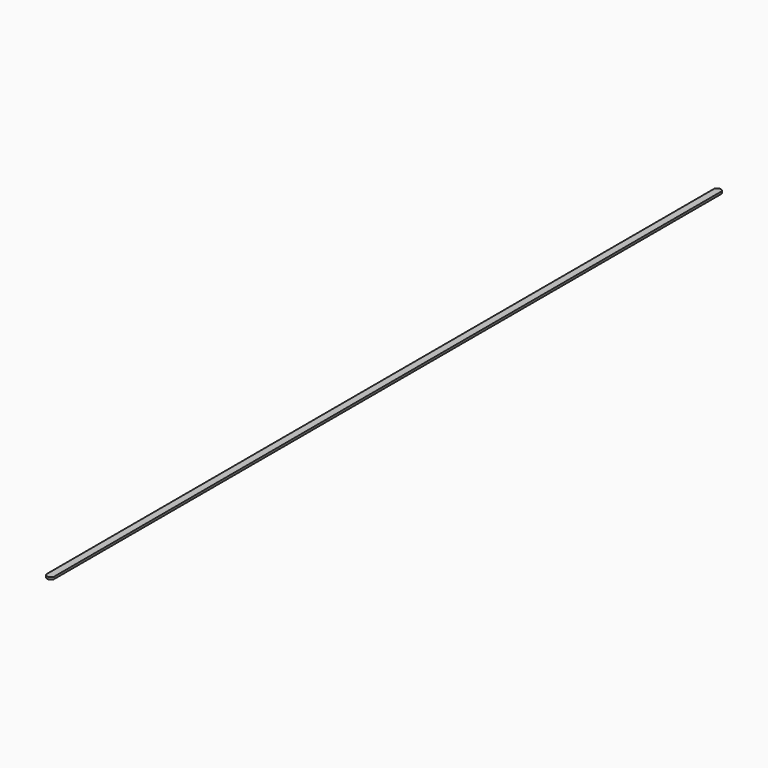
from build123d import *

# Parameters (mm, degrees)
BOX004_W     = 1
BOX004_H     = 115
BOX004_DEPTH = 0.3
FILLET005_R  = 0.45
FILLET006_R  = 0.45
FILLET009_R  = 0.45
FILLET010_R  = 0.45


with BuildPart() as part:
    # Box004 → Box004 (new body)
    with BuildSketch(Plane(origin=(-20, -118, 9.9), x_dir=(1, 0, 0), z_dir=(0, 0, 1))):
        with Locations((0.5, 57.5)):
            Rectangle(BOX004_W, BOX004_H)
    extrude(amount=BOX004_DEPTH)

    # Fillet005
    fillet005_edges = [part.edges().sort_by_distance(p)[0] for p in [
        (-20, -3, 10.05),
    ]]
    fillet(fillet005_edges, radius=FILLET005_R)

    # Fillet006
    fillet006_edges = [part.edges().sort_by_distance(p)[0] for p in [
        (-19, -3, 10.05),
    ]]
    fillet(fillet006_edges, radius=FILLET006_R)

    # Fillet009
    fillet009_edges = [part.edges().sort_by_distance(p)[0] for p in [
        (-20, -118, 10.05),
    ]]
    fillet(fillet009_edges, radius=FILLET009_R)

    # Fillet010
    fillet010_edges = [part.edges().sort_by_distance(p)[0] for p in [
        (-19, -118, 10.05),
    ]]
    fillet(fillet010_edges, radius=FILLET010_R)


solid = part.part
